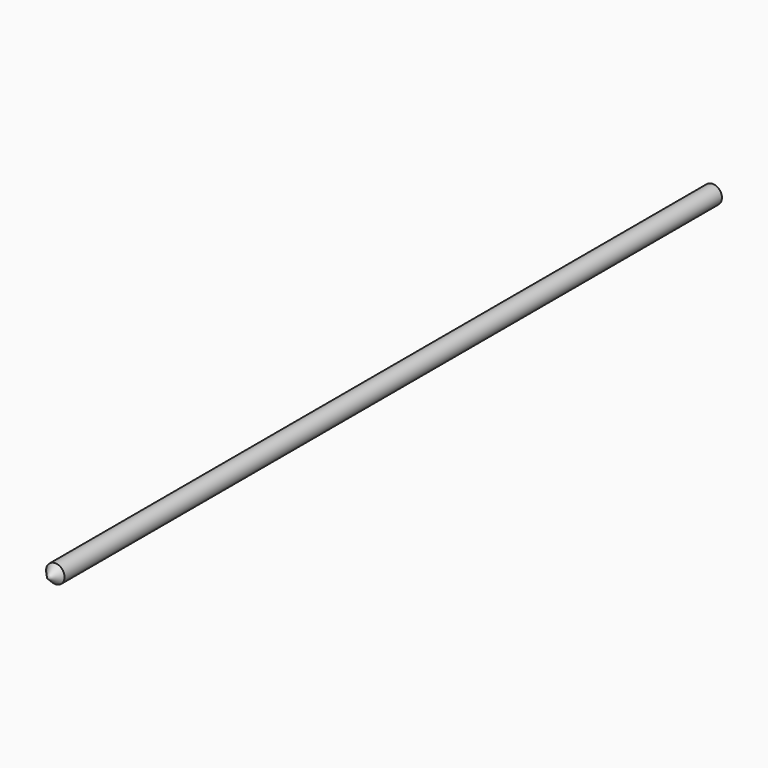
from build123d import *

# Parameters (mm, degrees)
F0_R     = 0.45
F1_DEPTH = 40


with BuildPart() as f1:
    # F0 (on Front) → F1 (new body)
    with BuildSketch(Plane.XZ):
        Circle(F0_R)
    extrude(amount=F1_DEPTH)

    # F2 (on Right) → F3 (revolve)
    with BuildSketch(Plane.YZ):
        Polygon((-40.49991, 0), (-39.99991, 0), (-39.99991, 0.45), align=None)
    revolve(axis=Axis((0, -40.24991, 0), (0, -1, 0)))


solid = f1.part
